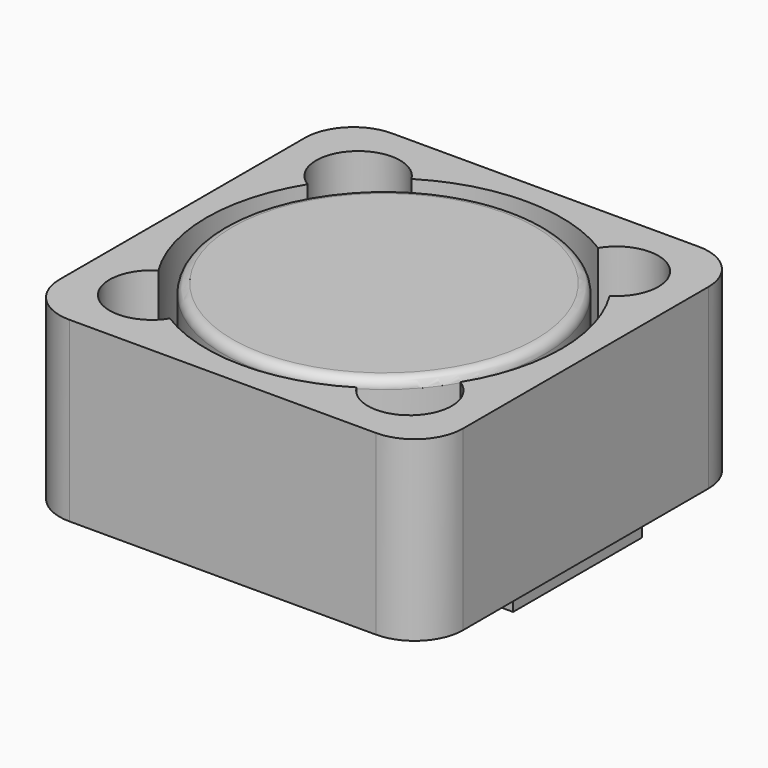
from build123d import *

# Parameters (mm, degrees)
SKETCH001_W  = 2.5
SKETCH001_H  = 5
PAD001_DEPTH = 0.5
SKETCH002_W  = 2.5
SKETCH002_H  = 5
PAD002_DEPTH = 0.5
SKETCH_W     = 12.5
SKETCH_H     = 12.5
PAD_DEPTH    = 5.5
FILLET_R     = 1.5
SKETCH003_R  = 5
POCKET_DEPTH = 3
FILLET001_R  = 0.3


with BuildPart() as body001:
    # Sketch001 → Pad001 (new body)
    with BuildSketch(Plane.XY):
        with Locations((-4.75, 0)):
            Rectangle(SKETCH001_W, SKETCH001_H)
    extrude(amount=PAD001_DEPTH)


with BuildPart() as body002:
    # Sketch002 → Pad002 (new body)
    with BuildSketch(Plane.XY):
        with Locations((4.75, 0)):
            Rectangle(SKETCH002_W, SKETCH002_H)
    extrude(amount=PAD002_DEPTH)


with BuildPart() as fusion:
    # Sketch → Pad (new body)
    with BuildSketch(Plane.XY):
        Rectangle(SKETCH_W, SKETCH_H)
    extrude(amount=PAD_DEPTH)

    # Fillet
    fillet_edges = [fusion.edges().sort_by_distance(p)[0] for p in [
        (-6.25, -6.25, 2.75),
        (6.25, -6.25, 2.75),
        (-6.25, 6.25, 2.75),
        (6.25, 6.25, 2.75),
    ]]
    fillet(fillet_edges, radius=FILLET_R)

    # Sketch003 (on Face5 of Fillet) → Pocket (cut)
    with BuildSketch(Plane.XY.offset(5.5)):
        with BuildLine():
            ThreePointArc((-4.678742, 2.891258), (-5.5, 0), (-4.678742, -2.891258))
            ThreePointArc((-4.678742, -2.891258), (-4.919239, -4.919239), (-2.891258, -4.678742))
            ThreePointArc((-2.891258, -4.678742), (0, -5.5), (2.891258, -4.678742))
            ThreePointArc((2.891258, -4.678742), (4.919239, -4.919239), (4.678742, -2.891258))
            ThreePointArc((4.678742, -2.891258), (5.5, 0), (4.678742, 2.891258))
            ThreePointArc((4.678742, 2.891258), (4.919239, 4.919239), (2.891258, 4.678742))
            ThreePointArc((2.891258, 4.678742), (0, 5.5), (-2.891258, 4.678742))
            ThreePointArc((-2.891258, 4.678742), (-4.919239, 4.919239), (-4.678742, 2.891258))
        make_face()
        Circle(SKETCH003_R, mode=Mode.SUBTRACT)
    extrude(amount=-POCKET_DEPTH, mode=Mode.SUBTRACT)

    # Fillet001
    fillet001_edges = [fusion.edges().sort_by_distance(p)[0] for p in [
        (-5, 0, 5.5),
    ]]
    fillet(fillet001_edges, radius=FILLET001_R)


with BuildPart() as fusion_1:
    # Body placement: moved
    add(fusion.part.moved(Location((0, 0, 0.5))))

    # Fusion: union Body001, Body002
    add(body001.part)
    add(body002.part)


solid = fusion_1.part
